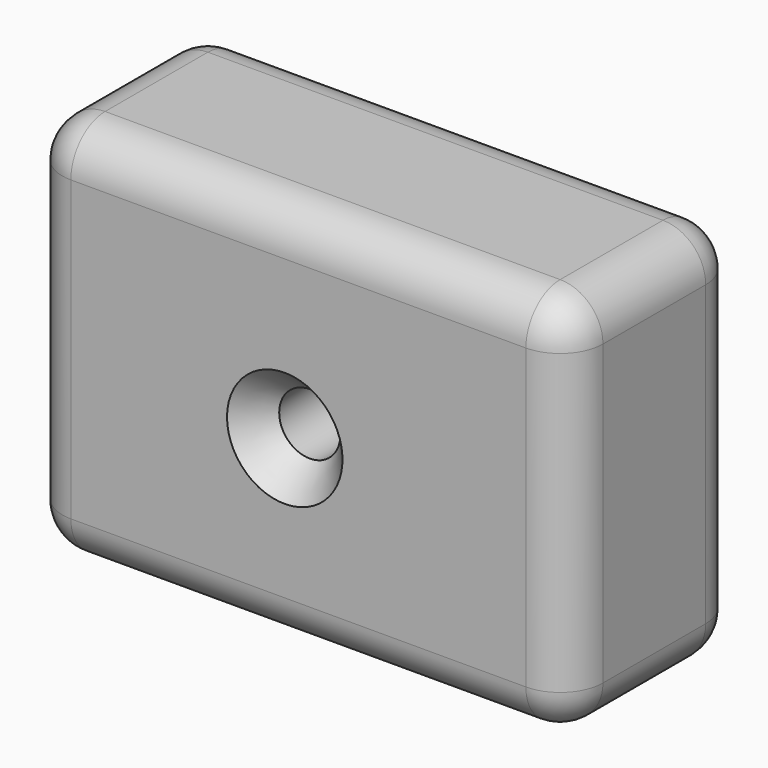
from build123d import *

# Parameters (mm, degrees)
F0_W           = 63.1470456719
F0_H           = 44.8482893407
F1_DEPTH       = 25
F3_D           = 7.1374
F3_CSINK_D     = 13.4874
F3_CSINK_ANGLE = 82
F4_R           = 5


with BuildPart() as f1:
    # F0 (on Front) → F1 (new body)
    with BuildSketch(Plane.XZ):
        with Locations((31.573522836, -22.4241446704)):
            Rectangle(F0_W, F0_H)
    extrude(amount=F1_DEPTH)

    # F3 (through all)
    with Locations(Plane.XZ.offset(25)):
        with Locations((29.9805495888, -23.4452802688)):
            CounterSinkHole(F3_D / 2, F3_CSINK_D / 2, counter_sink_angle=F3_CSINK_ANGLE)

    # F4
    f4_edges = [f1.edges().sort_by_distance(p)[0] for p in [
        (63.147046, -12.5, 0),
        (0, -12.5, 0),
        (31.573523, 0, 0),
        (31.573523, -25, 0),
        (0, -12.5, -44.848289),
        (0, 0, -22.424145),
        (0, -25, -22.424145),
        (63.147046, -12.5, -44.848289),
        (31.573523, 0, -44.848289),
        (31.573523, -25, -44.848289),
        (63.147046, 0, -22.424145),
        (63.147046, -25, -22.424145),
    ]]
    fillet(f4_edges, radius=F4_R)


solid = f1.part
